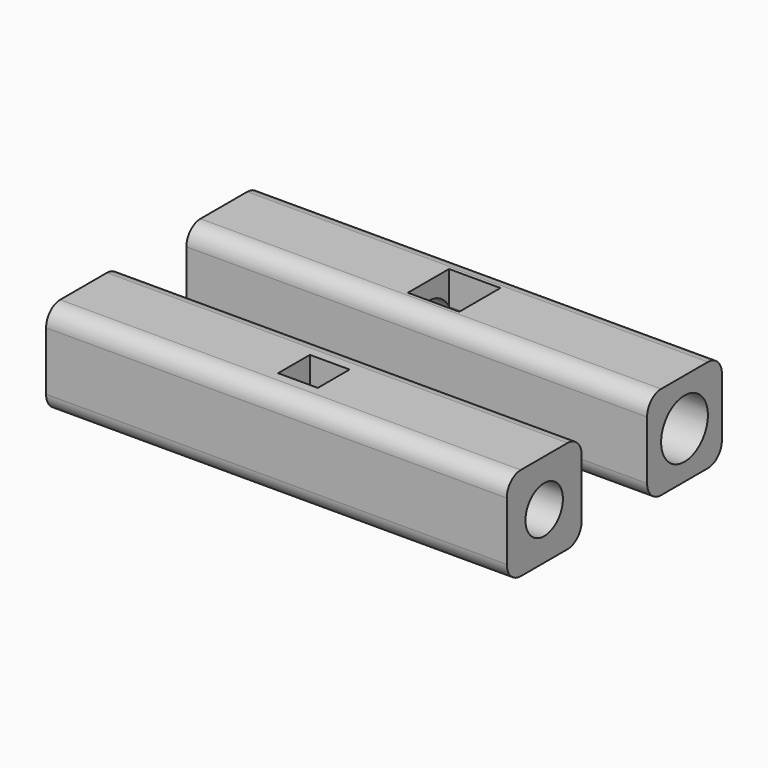
from build123d import *

# Parameters (mm, degrees)
F0_W     = 3.4
F0_H     = 3.4
F1_DEPTH = 8
F2_R     = 2
F3_DEPTH = 39.401
F4_R     = 1.5
F6_R     = 2.5
F7_DEPTH = 39.401
F8_W     = 4.4
F8_H     = 4.4
F9_DEPTH = 8.001


with BuildPart() as f1:
    # F0 (on Top) → F1 (new body)
    with BuildSketch(Plane.XY):
        Polygon((19.7, -2), (19.7, 2), (19.7, 4), (-19.7, 4), (-19.7, 2), (-19.7, -2), (-19.7, -4), (19.7, -4), align=None)
        Rectangle(F0_W, F0_H, mode=Mode.SUBTRACT)
    extrude(amount=F1_DEPTH)

    # F2 (on face) → F3 (cut, through all)
    with BuildSketch(Plane(origin=(-19.7, 0, 0), x_dir=(0, -1, 0), z_dir=(-1, 0, 0))):
        with Locations((0, 4)):
            Circle(F2_R)
    extrude(amount=-F3_DEPTH, mode=Mode.SUBTRACT)

    # F4
    f4_edges = [f1.edges().sort_by_distance(p)[0] for p in [
        (0, -4, 8),
        (0, 4, 8),
        (0, -4, 0),
        (0, 4, 0),
    ]]
    fillet(f4_edges, radius=F4_R)


with BuildPart() as f5_1:
    # F5: copy of F1
    add(f1.part.moved(Location((0, 15, 0))))

    # F6 (on face) → F7 (cut, through all)
    with BuildSketch(Plane(origin=(-19.7, 0, 0), x_dir=(0, -1, 0), z_dir=(-1, 0, 0))):
        with Locations((-15, 4)):
            Circle(F6_R)
    extrude(amount=-F7_DEPTH, mode=Mode.SUBTRACT)

    # F8 (on face) → F9 (cut, through all)
    with BuildSketch(Plane(origin=(0, 0, 0), x_dir=(1, 0, 0), z_dir=(0, 0, -1))):
        with Locations((0, -15)):
            Rectangle(F8_W, F8_H)
    extrude(amount=-F9_DEPTH, mode=Mode.SUBTRACT)


solid = Compound([f1.part, f5_1.part])
